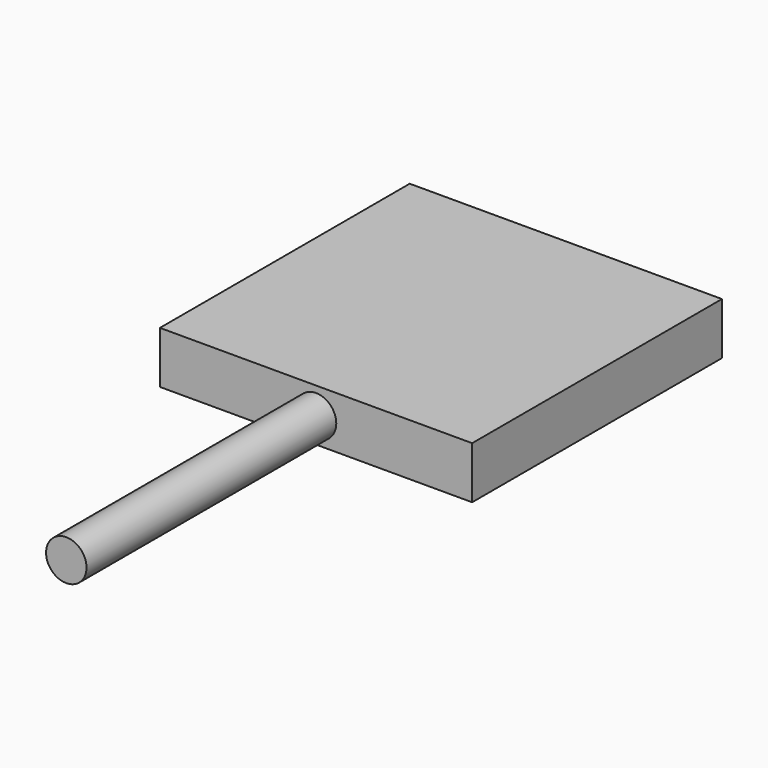
from build123d import *

# Parameters (mm, degrees)
F0_W     = 60
F0_H     = 60
F1_DEPTH = 10
F2_R     = 3.889401
F3_DEPTH = 60


with BuildPart() as f1:
    # F0 (on Top) → F1 (new body)
    with BuildSketch(Plane.XY):
        Rectangle(F0_W, F0_H)
    extrude(amount=F1_DEPTH)

    # F2 (on face) → F3 (join)
    with BuildSketch(Plane.XZ.offset(30)):
        with Locations((0, 4.845108)):
            Circle(F2_R)
    extrude(amount=F3_DEPTH)


solid = f1.part
